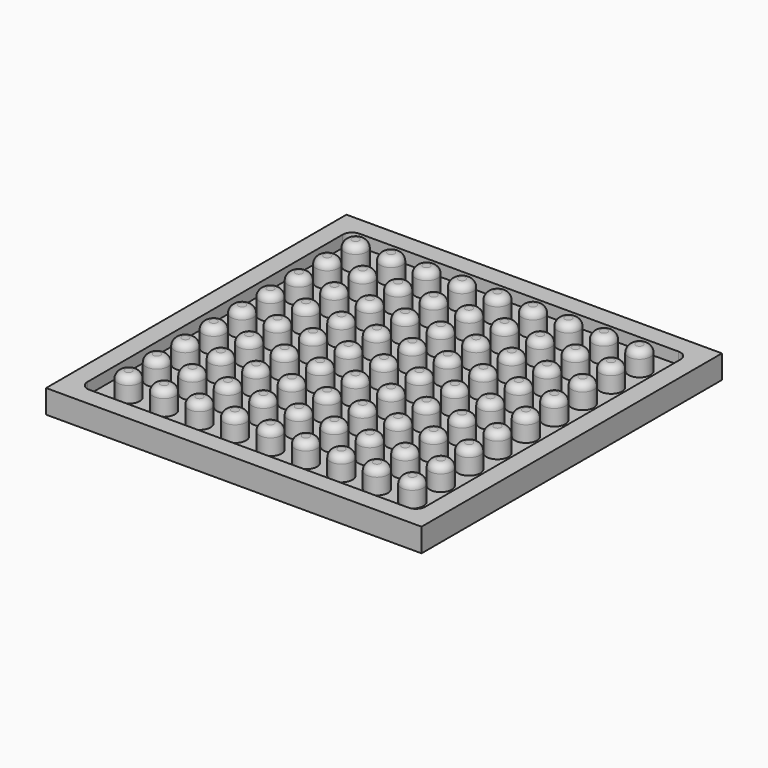
from build123d import *

# Parameters (mm, degrees)
F0_W     = 50.8
F0_H     = 50.8
F1_DEPTH = 3.175
F2_W     = 45.72
F2_H     = 45.72
F3_DEPTH = 1.5875
F4_R     = 1.27
F5_R     = 1.5
F6_DEPTH = 3.175
F7_R     = 1.016


with BuildPart() as f1:
    # F0 (on Top) → F1 (new body)
    with BuildSketch(Plane.XY):
        Rectangle(F0_W, F0_H)
    extrude(amount=F1_DEPTH)

    # F2 (on face) → F3 (cut)
    with BuildSketch(Plane.XY.offset(3.175)):
        Rectangle(F2_W, F2_H)
    extrude(amount=-F3_DEPTH, mode=Mode.SUBTRACT)

    # F4
    f4_edges = [f1.edges().sort_by_distance(p)[0] for p in [
        (-22.86, 22.86, 2.38125),
        (22.86, -22.86, 2.38125),
        (22.86, 22.86, 2.38125),
        (-22.86, -22.86, 2.38125),
    ]]
    fillet(f4_edges, radius=F4_R)

    # F5 (on face) → F6 (join)
    with BuildSketch(Plane.XY.offset(1.5875)):
        with Locations((-19.2, 19.2)):
            Circle(F5_R)
        with Locations((-14.4, 19.2)):
            Circle(F5_R)
        with Locations((14.4, -19.2)):
            Circle(F5_R)
        with Locations((4.8, -4.8)):
            Circle(F5_R)
        with Locations((4.8, 0)):
            Circle(F5_R)
        with Locations((9.6, 0)):
            Circle(F5_R)
        with Locations((14.4, -14.4)):
            Circle(F5_R)
        with Locations((-9.6, 14.4)):
            Circle(F5_R)
        with Locations((4.8, -14.4)):
            Circle(F5_R)
        with Locations((9.6, -9.6)):
            Circle(F5_R)
        with Locations((9.6, 19.2)):
            Circle(F5_R)
        with Locations((0, -4.8)):
            Circle(F5_R)
        with Locations((0, 9.6)):
            Circle(F5_R)
        with Locations((-9.6, 4.8)):
            Circle(F5_R)
        with Locations((-4.8, 4.8)):
            Circle(F5_R)
        with Locations((-9.6, 19.2)):
            Circle(F5_R)
        with Locations((9.6, -14.4)):
            Circle(F5_R)
        with Locations((-4.8, 0)):
            Circle(F5_R)
        with Locations((4.8, -9.6)):
            Circle(F5_R)
        with Locations((-9.6, 9.6)):
            Circle(F5_R)
        with Locations((-4.8, -4.8)):
            Circle(F5_R)
        with Locations((0, 4.8)):
            Circle(F5_R)
        with Locations((9.6, -4.8)):
            Circle(F5_R)
        with Locations((-4.8, 9.6)):
            Circle(F5_R)
        with Locations((9.6, 14.4)):
            Circle(F5_R)
        with Locations((-4.8, -9.6)):
            Circle(F5_R)
        with Locations((4.8, -19.2)):
            Circle(F5_R)
        with Locations((-9.6, 0)):
            Circle(F5_R)
        with Locations((0, -9.6)):
            Circle(F5_R)
        with Locations((9.6, -19.2)):
            Circle(F5_R)
        with Locations((9.6, 9.6)):
            Circle(F5_R)
        with Locations((-9.6, -14.4)):
            Circle(F5_R)
        with Locations((-4.8, 19.2)):
            Circle(F5_R)
        with Locations((-4.8, -14.4)):
            Circle(F5_R)
        with Locations((4.8, 9.6)):
            Circle(F5_R)
        with Locations((0, 19.2)):
            Circle(F5_R)
        with Locations((-9.6, -4.8)):
            Circle(F5_R)
        with Locations((0, -14.4)):
            Circle(F5_R)
        with Locations((4.8, 19.2)):
            Circle(F5_R)
        with Locations((9.6, 4.8)):
            Circle(F5_R)
        with Locations((-9.6, -19.2)):
            Circle(F5_R)
        with Locations((-4.8, 14.4)):
            Circle(F5_R)
        with Locations((-4.8, -19.2)):
            Circle(F5_R)
        with Locations((4.8, 14.4)):
            Circle(F5_R)
        with Locations((0, 14.4)):
            Circle(F5_R)
        Circle(F5_R)
        with Locations((4.8, 4.8)):
            Circle(F5_R)
        with Locations((14.4, 19.2)):
            Circle(F5_R)
        with Locations((19.2, 19.2)):
            Circle(F5_R)
        with Locations((19.2, 14.4)):
            Circle(F5_R)
        with Locations((14.4, 14.4)):
            Circle(F5_R)
        with Locations((14.4, 9.6)):
            Circle(F5_R)
        with Locations((19.2, 9.6)):
            Circle(F5_R)
        with Locations((19.2, 4.8)):
            Circle(F5_R)
        with Locations((14.4, 4.8)):
            Circle(F5_R)
        with Locations((14.4, 0)):
            Circle(F5_R)
        with Locations((19.2, 0)):
            Circle(F5_R)
        with Locations((19.2, -4.8)):
            Circle(F5_R)
        with Locations((14.4, -4.8)):
            Circle(F5_R)
        with Locations((14.4, -9.6)):
            Circle(F5_R)
        with Locations((19.2, -9.6)):
            Circle(F5_R)
        with Locations((19.2, -14.4)):
            Circle(F5_R)
        with Locations((19.2, -19.2)):
            Circle(F5_R)
        with Locations((0, -19.2)):
            Circle(F5_R)
        with Locations((-14.4, -19.2)):
            Circle(F5_R)
        with Locations((-9.6, -9.6)):
            Circle(F5_R)
        with Locations((-14.4, -9.6)):
            Circle(F5_R)
        with Locations((-14.4, -14.4)):
            Circle(F5_R)
        with Locations((-19.2, -19.2)):
            Circle(F5_R)
        with Locations((-19.2, -14.4)):
            Circle(F5_R)
        with Locations((-19.2, -9.6)):
            Circle(F5_R)
        with Locations((-19.2, -4.8)):
            Circle(F5_R)
        with Locations((-14.4, -4.8)):
            Circle(F5_R)
        with Locations((-14.4, 0)):
            Circle(F5_R)
        with Locations((-14.4, 4.8)):
            Circle(F5_R)
        with Locations((-14.4, 9.6)):
            Circle(F5_R)
        with Locations((-14.4, 14.4)):
            Circle(F5_R)
        with Locations((-19.2, 14.4)):
            Circle(F5_R)
        with Locations((-19.2, 9.6)):
            Circle(F5_R)
        with Locations((-19.2, 4.8)):
            Circle(F5_R)
        with Locations((-19.2, 0)):
            Circle(F5_R)
    extrude(amount=F6_DEPTH)

    # F7
    f7_edges = [f1.edges().sort_by_distance(p)[0] for p in [
        (-20.7, 19.2, 4.7625),
        (-15.9, 19.2, 4.7625),
        (-11.1, 19.2, 4.7625),
        (-6.3, 19.2, 4.7625),
        (-1.5, 19.2, 4.7625),
        (3.3, 19.2, 4.7625),
        (8.1, 19.2, 4.7625),
        (12.9, 19.2, 4.7625),
        (12.9, 14.4, 4.7625),
        (8.1, 14.4, 4.7625),
        (3.3, 14.4, 4.7625),
        (-1.5, 14.4, 4.7625),
        (-6.3, 14.4, 4.7625),
        (-11.1, 14.4, 4.7625),
        (-15.9, 14.4, 4.7625),
        (-20.7, 14.4, 4.7625),
        (-20.7, 9.6, 4.7625),
        (-15.9, 9.6, 4.7625),
        (-11.1, 9.6, 4.7625),
        (-6.3, 9.6, 4.7625),
        (-1.5, 9.6, 4.7625),
        (3.3, 9.6, 4.7625),
        (8.1, 9.6, 4.7625),
        (12.9, 9.6, 4.7625),
        (12.9, 4.8, 4.7625),
        (8.1, 4.8, 4.7625),
        (3.3, 4.8, 4.7625),
        (-1.5, 4.8, 4.7625),
        (-6.3, 4.8, 4.7625),
        (-11.1, 4.8, 4.7625),
        (-15.9, 4.8, 4.7625),
        (-20.7, 4.8, 4.7625),
        (-20.7, 0, 4.7625),
        (-15.9, 0, 4.7625),
        (-11.1, 0, 4.7625),
        (-6.3, 0, 4.7625),
        (-1.5, 0, 4.7625),
        (3.3, 0, 4.7625),
        (8.1, 0, 4.7625),
        (17.7, 19.2, 4.7625),
        (17.7, 14.4, 4.7625),
        (17.7, 9.6, 4.7625),
        (17.7, 4.8, 4.7625),
        (17.7, 0, 4.7625),
        (12.9, 0, 4.7625),
        (17.7, -4.8, 4.7625),
        (12.9, -4.8, 4.7625),
        (8.1, -4.8, 4.7625),
        (3.3, -4.8, 4.7625),
        (-1.5, -4.8, 4.7625),
        (-6.3, -4.8, 4.7625),
        (-11.1, -4.8, 4.7625),
        (-15.9, -4.8, 4.7625),
        (-20.7, -4.8, 4.7625),
        (-20.7, -9.6, 4.7625),
        (-15.9, -9.6, 4.7625),
        (-11.1, -9.6, 4.7625),
        (-6.3, -9.6, 4.7625),
        (-1.5, -9.6, 4.7625),
        (3.3, -9.6, 4.7625),
        (8.1, -9.6, 4.7625),
        (12.9, -9.6, 4.7625),
        (17.7, -9.6, 4.7625),
        (17.7, -14.4, 4.7625),
        (12.9, -14.4, 4.7625),
        (8.1, -14.4, 4.7625),
        (3.3, -14.4, 4.7625),
        (-1.5, -14.4, 4.7625),
        (-6.3, -14.4, 4.7625),
        (-11.1, -14.4, 4.7625),
        (-15.9, -14.4, 4.7625),
        (-20.7, -14.4, 4.7625),
        (-20.7, -19.2, 4.7625),
        (-15.9, -19.2, 4.7625),
        (-11.1, -19.2, 4.7625),
        (-6.3, -19.2, 4.7625),
        (-1.5, -19.2, 4.7625),
        (3.3, -19.2, 4.7625),
        (8.1, -19.2, 4.7625),
        (12.9, -19.2, 4.7625),
        (17.7, -19.2, 4.7625),
    ]]
    fillet(f7_edges, radius=F7_R)


solid = f1.part
